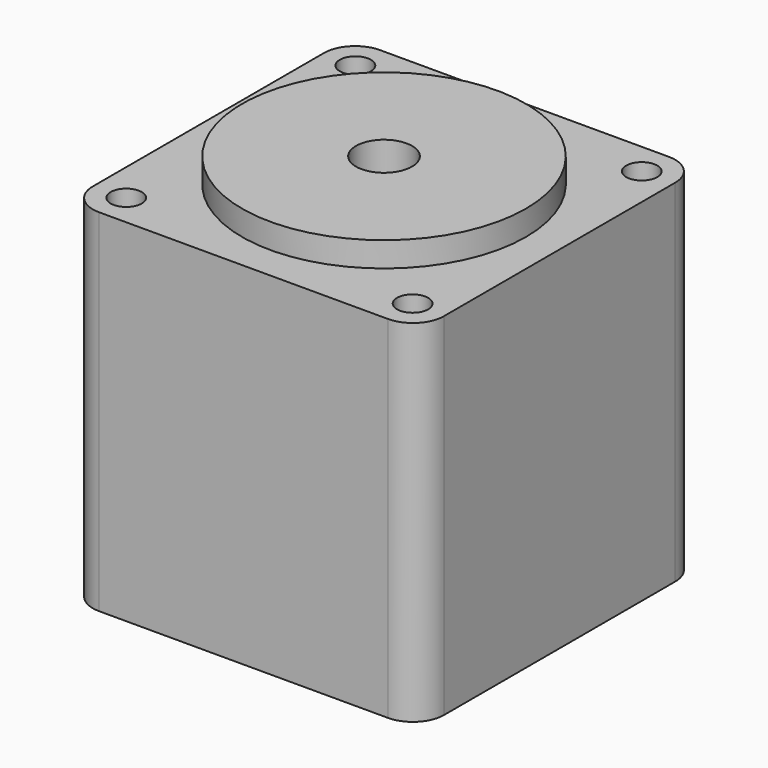
from build123d import *

# Parameters (mm, degrees)
F0_W     = 28.2
F0_H     = 28.2
F0_R     = 11.4
F0_R_2   = 2.25
F1_DEPTH = 28.2
F2_DEPTH = 2
F3_R     = 2.5
F5_D     = 2.5
F5_DEPTH = 5
F5_TIP   = 0.7510757738


with BuildPart() as f1:
    # F0 (on Top) → F1 (new body)
    with BuildSketch(Plane.XY):
        Rectangle(F0_W, F0_H)
        Circle(F0_R, mode=Mode.SUBTRACT)
        Circle(F0_R)
        Circle(F0_R_2, mode=Mode.SUBTRACT)
    extrude(amount=-F1_DEPTH)

    # F0 (on Top) → F2 (join)
    with BuildSketch(Plane.XY):
        Circle(F0_R)
        Circle(F0_R_2, mode=Mode.SUBTRACT)
    extrude(amount=F2_DEPTH)

    # F3
    f3_edges = [f1.edges().sort_by_distance(p)[0] for p in [
        (-14.1, -14.1, -14.1),
        (14.1, -14.1, -14.1),
        (-14.1, 14.1, -14.1),
        (14.1, 14.1, -14.1),
    ]]
    fillet(f3_edges, radius=F3_R)

    # F5
    with Locations(Plane.XY):
        with Locations((-11.5, 11.5), (11.5, 11.5), (11.5, -11.5), (-11.5, -11.5)):
            Hole(F5_D / 2, depth=F5_DEPTH)
            with Locations((0, 0, -(F5_DEPTH + F5_TIP / 2))):  # 118° drill point
                Cone(0, F5_D / 2, F5_TIP, mode=Mode.SUBTRACT)


solid = f1.part
